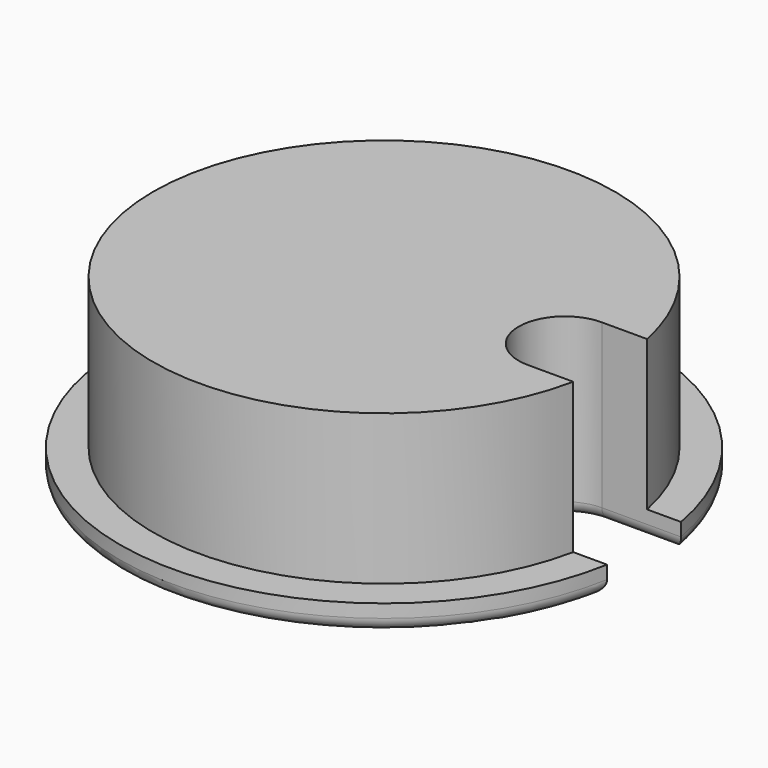
from build123d import *

# Parameters (mm, degrees)
F0_R     = 31.75
F1_DEPTH = 3.175
F2_R     = 27.7495
F3_DEPTH = 18.034
F5_DEPTH = 25.4
F6_R     = 1.5875


with BuildPart() as f1:
    # F0 (on Top) → F1 (new body)
    with BuildSketch(Plane.XY):
        Circle(F0_R)
    extrude(amount=F1_DEPTH)

    # F2 (on face) → F3 (join)
    with BuildSketch(Plane.XY.offset(3.175)):
        Circle(F2_R)
    extrude(amount=F3_DEPTH)

    # F4 (on face) → F5 (cut)
    with BuildSketch(Plane(origin=(0, 0, 0), x_dir=(1, 0, 0), z_dir=(0, 0, -1))):
        with BuildLine():
            ThreePointArc((31.75, 0), (31.627275, 2.788905), (31.260048, 5.55625))
            Line((31.260048, 5.55625), (21.7424, 5.55625))
            ThreePointArc((21.7424, 5.55625), (16.18615, 0), (21.7424, -5.55625))
            Line((21.7424, -5.55625), (31.260048, -5.55625))
            ThreePointArc((31.260048, -5.55625), (31.627275, -2.788905), (31.75, 0))
        make_face()
    extrude(amount=-F5_DEPTH, mode=Mode.SUBTRACT)

    # F6
    f6_edges = [f1.edges().sort_by_distance(p)[0] for p in [
        (-31.75, 0, 0),
        (26.501224, -5.55625, 0),
        (16.18615, 0, 0),
        (26.501224, 5.55625, 0),
    ]]
    fillet(f6_edges, radius=F6_R)


solid = f1.part
